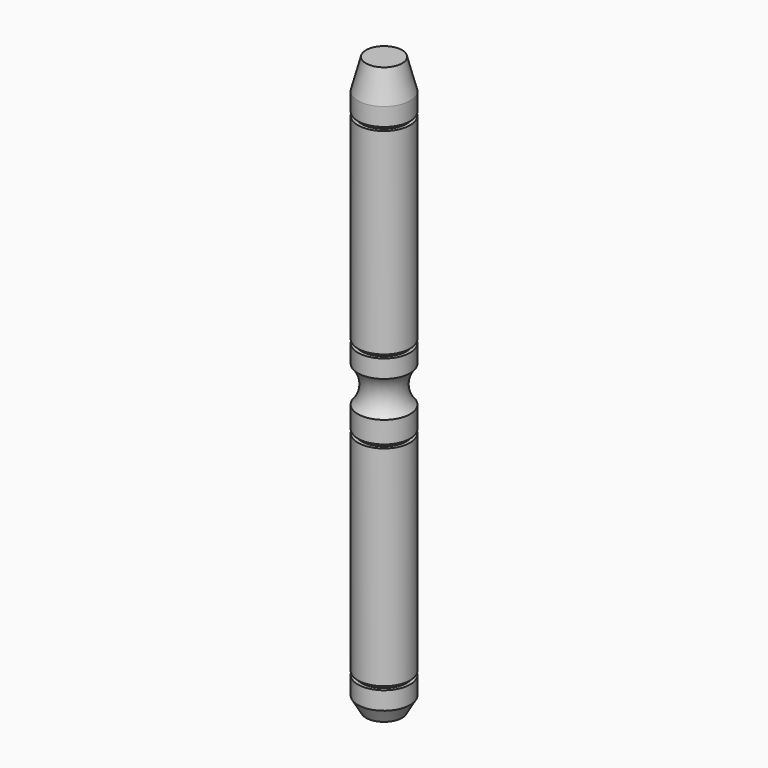
from build123d import *


with BuildPart() as f1:
    # F0 (on Front) → F1 (revolve)
    with BuildSketch(Plane.XZ):
        with BuildLine():
            Line((12.7, 203.2), (0, 203.2))
            Line((0, 203.2), (0, -203.2))
            Line((0, -203.2), (12.7, -203.2))
            Line((12.7, -203.2), (18.415, -193.30133))
            Line((18.415, -193.30133), (18.415, -180.60133))
            Line((18.415, -180.60133), (15.875, -180.60133))
            Line((15.875, -180.60133), (15.875, -178.06133))
            Line((15.875, -178.06133), (18.415, -178.06133))
            Line((18.415, -178.06133), (18.415, -30.48))
            Line((18.415, -30.48), (15.875, -30.48))
            Line((15.875, -30.48), (15.875, -27.94))
            Line((15.875, -27.94), (18.415, -27.94))
            Line((18.415, -27.94), (18.415, -12.7))
            ThreePointArc((18.415, -12.7), (13.564032, 0), (18.415, 12.7))
            Line((18.415, 12.7), (18.415, 25.4))
            Line((18.415, 25.4), (15.875, 25.4))
            Line((15.875, 25.4), (15.875, 27.94))
            Line((15.875, 27.94), (18.415, 27.94))
            Line((18.415, 27.94), (18.415, 166.63133))
            Line((18.415, 166.63133), (15.875, 166.63133))
            Line((15.875, 166.63133), (15.875, 169.17133))
            Line((15.875, 169.17133), (18.415, 169.17133))
            Line((18.415, 169.17133), (18.415, 181.87133))
            Line((18.415, 181.87133), (12.7, 203.2))
        make_face()
    revolve(axis=Axis((0, 0, 0), (0, 0, -1)))


solid = f1.part
